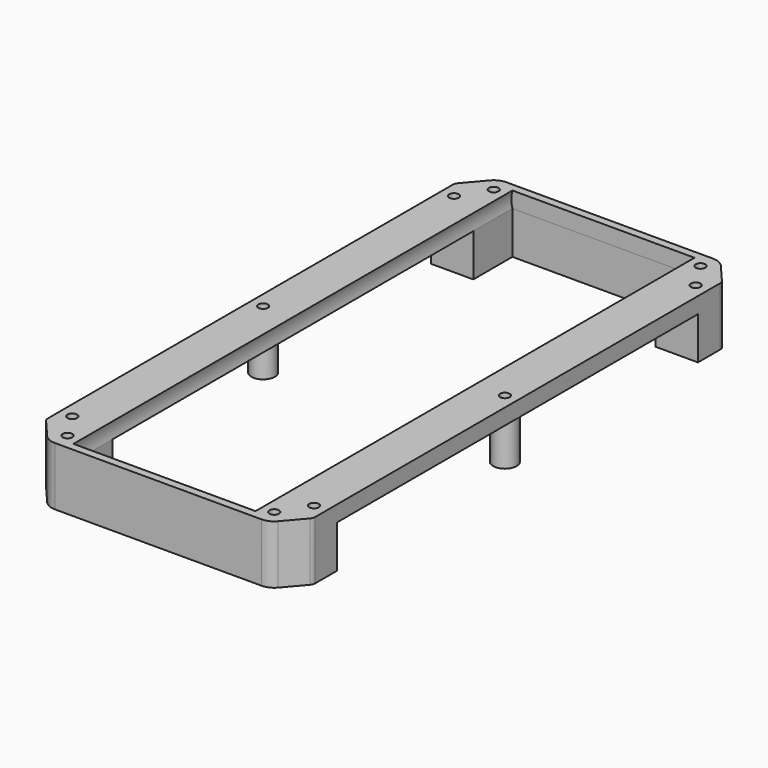
from build123d import *

# Parameters (mm, degrees)
SKETCH066_R     = 7.357041
SKETCH066_R_2   = 3
EXTRUDE_DEPTH   = 26.75
SKETCH065_R     = 3
SKETCH065_W     = 114.5
SKETCH065_H     = 345
PAD035_DEPTH    = 10
POCKET035_DEPTH = 345


with BuildPart() as body082:
    # Sketch066 → Extrude (new body)
    with BuildSketch(Plane.XY):
        with Locations((-76, 0)):
            Circle(SKETCH066_R)
        with Locations((-76, 0)):
            Circle(SKETCH066_R_2, mode=Mode.SUBTRACT)
        with Locations((76, 0)):
            Circle(SKETCH066_R)
        with Locations((76, 0)):
            Circle(SKETCH066_R_2, mode=Mode.SUBTRACT)
        with BuildLine():
            ThreePointArc((-83.039601, 161.795278), (-83.752226, 160.581048), (-84, 159.195119))
            Line((-84, 141.77214), (-84, 159.195119))
            Line((-84, 141.77214), (-57.25, 141.77214))
            Line((-57.25, 141.77214), (-57.25, 172.5))
            Line((-57.25, 172.5), (57.25, 172.5))
            Line((57.25, 141.77214), (57.25, 172.5))
            Line((84, 141.77214), (57.25, 141.77214))
            Line((84, 141.77214), (84, 159.195119))
            ThreePointArc((84, 159.195119), (83.752226, 160.581048), (83.039601, 161.795278))
            Line((72.599002, 174.000398), (83.039601, 161.795278))
            ThreePointArc((72.599002, 174.000398), (69.183062, 176.583061), (65, 177.5))
            Line((-65, 177.5), (65, 177.5))
            ThreePointArc((-65, 177.5), (-69.183062, 176.583061), (-72.599002, 174.000398))
            Line((-72.599002, 174.000398), (-83.039601, 161.795278))
        make_face()
        with Locations((-65, 167.5)):
            Circle(SKETCH066_R_2, mode=Mode.SUBTRACT)
        with Locations((-76, 150)):
            Circle(SKETCH066_R_2, mode=Mode.SUBTRACT)
        with Locations((65, 167.5)):
            Circle(SKETCH066_R_2, mode=Mode.SUBTRACT)
        with Locations((76, 150)):
            Circle(SKETCH066_R_2, mode=Mode.SUBTRACT)
        with BuildLine():
            ThreePointArc((-84, -159.195119), (-83.752226, -160.581048), (-83.039601, -161.795278))
            Line((-72.599002, -174.000398), (-83.039601, -161.795278))
            ThreePointArc((-72.599002, -174.000398), (-69.183062, -176.583061), (-65, -177.5))
            Line((-65, -177.5), (65, -177.5))
            ThreePointArc((65, -177.5), (69.183062, -176.583061), (72.599002, -174.000398))
            Line((72.599002, -174.000398), (83.039601, -161.795278))
            ThreePointArc((83.039601, -161.795278), (83.752226, -160.581048), (84, -159.195119))
            Line((84, -141.77214), (84, -159.195119))
            Line((84, -141.77214), (57.25, -141.77214))
            Line((57.25, -141.77214), (57.25, -172.5))
            Line((-57.25, -172.5), (57.25, -172.5))
            Line((-57.25, -141.77214), (-57.25, -172.5))
            Line((-84, -141.77214), (-57.25, -141.77214))
            Line((-84, -141.77214), (-84, -159.195119))
        make_face()
        with Locations((-65, -167.5)):
            Circle(SKETCH066_R_2, mode=Mode.SUBTRACT)
        with Locations((-76, -150)):
            Circle(SKETCH066_R_2, mode=Mode.SUBTRACT)
        with Locations((65, -167.5)):
            Circle(SKETCH066_R_2, mode=Mode.SUBTRACT)
        with Locations((76, -150)):
            Circle(SKETCH066_R_2, mode=Mode.SUBTRACT)
    extrude(amount=-EXTRUDE_DEPTH)


with BuildPart() as body081:
    # Sketch065 → Pad035 (new body)
    with BuildSketch(Plane.XY):
        with BuildLine():
            Line((84, -33.872292), (84, 33.872292))
            Line((84, 159.195119), (84, 33.872292))
            ThreePointArc((84, 159.195119), (83.752226, 160.581048), (83.039601, 161.795278))
            Line((72.599002, 174.000398), (83.039601, 161.795278))
            ThreePointArc((72.599002, 174.000398), (69.183062, 176.583061), (65, 177.5))
            Line((-65, 177.5), (65, 177.5))
            ThreePointArc((-65, 177.5), (-69.183062, 176.583061), (-72.599002, 174.000398))
            Line((-83.039601, 161.795278), (-72.599002, 174.000398))
            ThreePointArc((-83.039601, 161.795278), (-83.752226, 160.581048), (-84, 159.195119))
            Line((-84, 33.872292), (-84, 159.195119))
            Line((-84, 33.872292), (-84, -33.872292))
            Line((-84, -33.872292), (-84, -159.195119))
            ThreePointArc((-84, -159.195119), (-83.752226, -160.581048), (-83.039601, -161.795278))
            Line((-83.039601, -161.795278), (-72.599002, -174.000398))
            ThreePointArc((-72.599002, -174.000398), (-69.183062, -176.583061), (-65, -177.5))
            Line((-65, -177.5), (65, -177.5))
            ThreePointArc((65, -177.5), (69.183062, -176.583061), (72.599002, -174.000398))
            Line((72.599002, -174.000398), (83.039601, -161.795278))
            ThreePointArc((83.039601, -161.795278), (83.752226, -160.581048), (84, -159.195119))
            Line((84, -159.195119), (84, -33.872292))
        make_face()
        with Locations((-76, 150)):
            Circle(SKETCH065_R, mode=Mode.SUBTRACT)
        with Locations((76, 150)):
            Circle(SKETCH065_R, mode=Mode.SUBTRACT)
        with Locations((-76, -150)):
            Circle(SKETCH065_R, mode=Mode.SUBTRACT)
        with Locations((76, -150)):
            Circle(SKETCH065_R, mode=Mode.SUBTRACT)
        with Locations((76, 0)):
            Circle(SKETCH065_R, mode=Mode.SUBTRACT)
        with Locations((-76, 0)):
            Circle(SKETCH065_R, mode=Mode.SUBTRACT)
        with Locations((-65, 167.5)):
            Circle(SKETCH065_R, mode=Mode.SUBTRACT)
        with Locations((65, 167.5)):
            Circle(SKETCH065_R, mode=Mode.SUBTRACT)
        with Locations((-65, -167.5)):
            Circle(SKETCH065_R, mode=Mode.SUBTRACT)
        with Locations((65, -167.5)):
            Circle(SKETCH065_R, mode=Mode.SUBTRACT)
        Rectangle(SKETCH065_W, SKETCH065_H, mode=Mode.SUBTRACT)
    extrude(amount=PAD035_DEPTH)

    # Sketch068 (on Face21 of Pad035) → Pocket035 (cut)
    with BuildSketch(Plane(origin=(0, -172.5, 0), x_dir=(-1, 0, 0), z_dir=(0, 1, 0))):
        with BuildLine():
            ThreePointArc((-57.25, 10), (-57.885083, 5), (-57.25, 0))
            Line((-57.25, 10), (-57.25, 0))
        make_face()
        with BuildLine():
            ThreePointArc((57.25, 0), (57.885083, 5), (57.25, 10))
            Line((57.25, 10), (57.25, 0))
        make_face()
    extrude(amount=POCKET035_DEPTH, mode=Mode.SUBTRACT)

    # Boolean006: union Body082
    add(body082.part)


solid = body081.part
